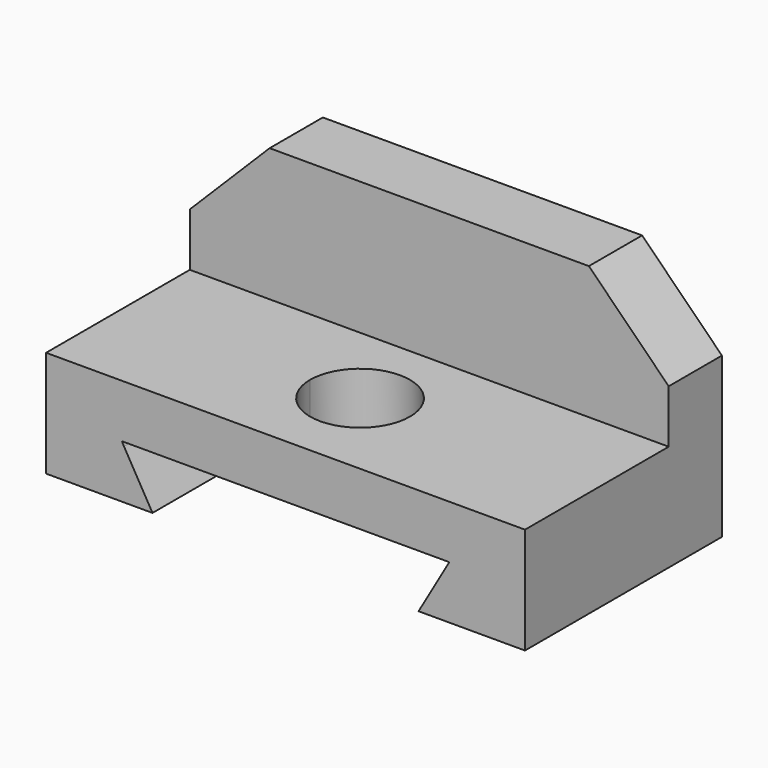
from build123d import *

# Parameters (mm, degrees)
F0_W     = 19.05
F0_H     = 15.875
F0_W_2   = 76.2
F1_DEPTH = 57.15
F2_DEPTH = 25.4
F4_DEPTH = 15.875
F6_DEPTH = 58.7502


with BuildPart() as f1:
    # F0 (on Top) → F1 (new body)
    with BuildSketch(Plane.XY):
        with Locations((-47.625, 28.5877)):
            Rectangle(F0_W, F0_H)
        with Locations((0, 28.5877)):
            Rectangle(F0_W_2, F0_H)
        with Locations((47.625, 28.5877)):
            Rectangle(F0_W, F0_H)
    extrude(amount=F1_DEPTH)

    # F0 (on Top) → F2 (join)
    with BuildSketch(Plane.XY):
        with BuildLine():
            ThreePointArc((-11.90625, 0), (0, 11.90625), (11.90625, 0))
            Line((11.90625, 0), (57.15, 0))
            Line((57.15, 0), (57.15, 20.6502))
            Line((57.15, 20.6502), (38.1, 20.6502))
            Line((38.1, 20.6502), (-38.1, 20.6502))
            Line((-38.1, 20.6502), (-57.15, 20.6502))
            Line((-57.15, 20.6502), (-57.15, 0))
            Line((-57.15, 0), (-11.90625, 0))
        make_face()
        with BuildLine():
            ThreePointArc((0, -11.90625), (-8.41899, -8.41899), (-11.90625, 0))
            Line((-11.90625, 0), (-57.15, 0))
            Line((-57.15, 0), (-57.15, -22.225))
            Line((-57.15, -22.225), (0, -22.225))
            Line((0, -22.225), (0, -11.90625))
        make_face()
        with BuildLine():
            Line((57.15, 0), (11.90625, 0))
            ThreePointArc((11.90625, 0), (8.41899, -8.41899), (0, -11.90625))
            Line((0, -11.90625), (0, -22.225))
            Line((0, -22.225), (57.15, -22.225))
            Line((57.15, -22.225), (57.15, 0))
        make_face()
    extrude(amount=F2_DEPTH)

    # F3 (on face) → F4 (cut)
    with BuildSketch(Plane.XZ.offset(-20.6502)):
        Polygon((-38.1, 57.15), (-57.15, 57.15), (-57.15, 38.1), align=None)
        Polygon((57.15, 57.15), (38.1, 57.15), (57.15, 38.1), align=None)
    extrude(amount=-F4_DEPTH, mode=Mode.SUBTRACT)

    # F5 (on face) → F6 (cut)
    with BuildSketch(Plane.XZ.offset(22.225)):
        Polygon((-38.550498, 11.778808), (-31.75, 0), (0, 0), (0, 12.7), (-39.082348, 12.7), align=None)
        Polygon((0, 12.7), (0, 0), (31.75, 0), (38.550498, 11.778808), (39.082348, 12.7), align=None)
    extrude(amount=-F6_DEPTH, mode=Mode.SUBTRACT)


solid = f1.part
